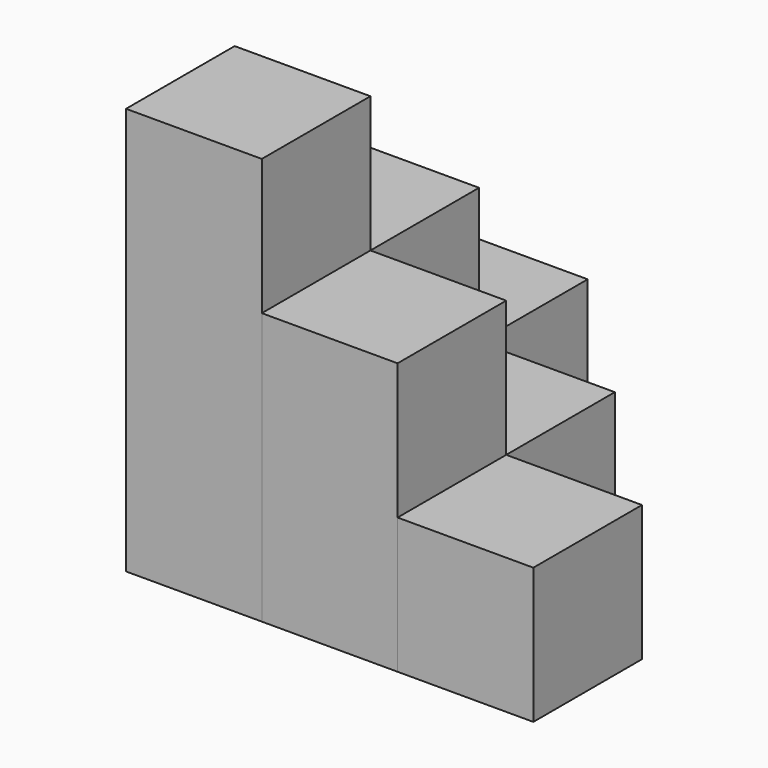
from build123d import *

# Parameters (mm, degrees)
BOX_W        = 10
BOX_H        = 10
BOX_DEPTH    = 30
BOX001_W     = 10
BOX001_H     = 10
BOX001_DEPTH = 20
BOX002_W     = 10
BOX002_H     = 10
BOX002_DEPTH = 20
BOX004_W     = 10
BOX004_H     = 10
BOX004_DEPTH = 10
BOX005_W     = 10
BOX005_H     = 10
BOX005_DEPTH = 10
BOX006_W     = 10
BOX006_H     = 10
BOX006_DEPTH = 10


with BuildPart() as cubo:
    # Box → Box (new body)
    with BuildSketch(Plane.XY):
        with Locations((5, 5)):
            Rectangle(BOX_W, BOX_H)
    extrude(amount=BOX_DEPTH)


with BuildPart() as cubo001:
    # Box001 → Box001 (new body)
    with BuildSketch(Plane(origin=(0, 10, 0), x_dir=(1, 0, 0), z_dir=(0, 0, 1))):
        with Locations((5, 5)):
            Rectangle(BOX001_W, BOX001_H)
    extrude(amount=BOX001_DEPTH)


with BuildPart() as cubo002:
    # Box002 → Box002 (new body)
    with BuildSketch(Plane(origin=(10, 0, 0), x_dir=(1, 0, 0), z_dir=(0, 0, 1))):
        with Locations((5, 5)):
            Rectangle(BOX002_W, BOX002_H)
    extrude(amount=BOX002_DEPTH)


with BuildPart() as cubo004:
    # Box004 → Box004 (new body)
    with BuildSketch(Plane(origin=(10, 10, 0), x_dir=(1, 0, 0), z_dir=(0, 0, 1))):
        with Locations((5, 5)):
            Rectangle(BOX004_W, BOX004_H)
    extrude(amount=BOX004_DEPTH)


with BuildPart() as cubo005:
    # Box005 → Box005 (new body)
    with BuildSketch(Plane(origin=(20, 0, 0), x_dir=(1, 0, 0), z_dir=(0, 0, 1))):
        with Locations((5, 5)):
            Rectangle(BOX005_W, BOX005_H)
    extrude(amount=BOX005_DEPTH)


with BuildPart() as cubo006:
    # Box006 → Box006 (new body)
    with BuildSketch(Plane(origin=(0, 20, 0), x_dir=(1, 0, 0), z_dir=(0, 0, 1))):
        with Locations((5, 5)):
            Rectangle(BOX006_W, BOX006_H)
    extrude(amount=BOX006_DEPTH)


solid = Compound([cubo.part, cubo001.part, cubo002.part, cubo004.part, cubo005.part, cubo006.part])
